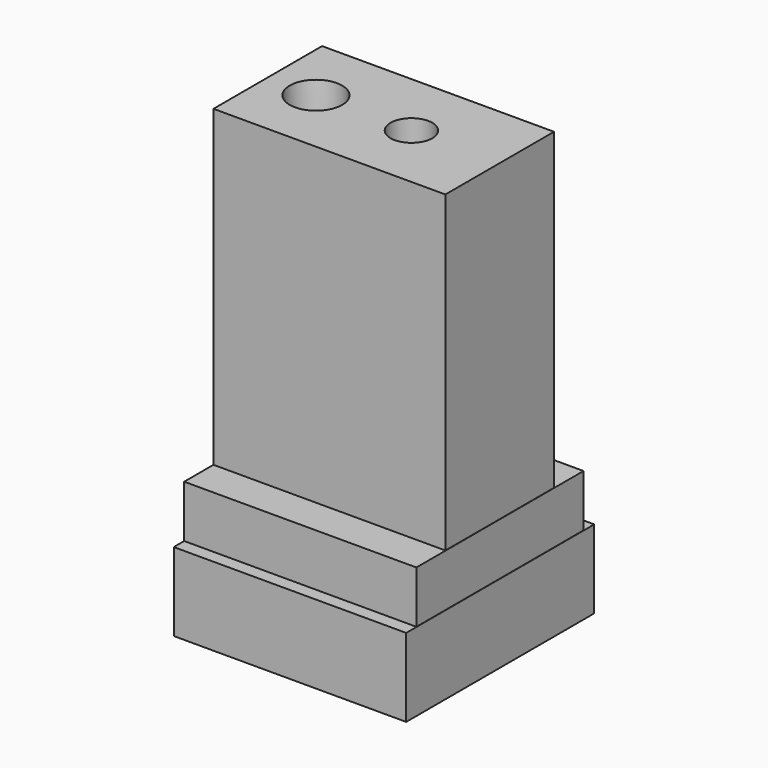
from build123d import *

# Parameters (mm, degrees)
F0_W      = 88.8
F0_H      = 26
F1_DEPTH  = 60
F3_DEPTH  = 45
F4_R      = 2
F5_W      = 88.9
F5_H      = 40
F6_DEPTH  = 10
F8_DEPTH  = 10
F9_R      = 2
F10_W     = 89
F10_H     = 45
F11_DEPTH = 15
F13_DEPTH = 5
F14_R     = 2
F15_R     = 4.6723110677
F15_R_2   = 4
F16_DEPTH = 85.001
F17_W     = 79.5239582658
F17_H     = 118.802215904
F18_DEPTH = 80
F19_R     = 3
F20_DEPTH = 3.2
F20_TAPER = -3
F21_R     = 4.232200224
F22_DEPTH = 25
F22_TAPER = -3


with BuildPart() as f1:
    # F0 (on Top) → F1 (new body)
    with BuildSketch(Plane.XY):
        Rectangle(F0_W, F0_H)
    extrude(amount=F1_DEPTH)

    # F2 (on face) → F3 (cut)
    with BuildSketch(Plane(origin=(0, 0, 0), x_dir=(1, 0, 0), z_dir=(0, 0, -1))):
        Polygon((-17.5, -7.6945363638), (0, -8), (17.5, -7.6945363638), (17.5, 7.6945363638), (0, 8), (-17.5, 7.6945363638), align=None)
    extrude(amount=-F3_DEPTH, mode=Mode.SUBTRACT)

    # F4
    f4_edges = [f1.edges().sort_by_distance(p)[0] for p in [
        (-17.5, 7.694536, 22.5),
        (-17.5, -7.694536, 22.5),
        (17.5, -7.694536, 22.5),
        (17.5, 7.694536, 22.5),
    ]]
    fillet(f4_edges, radius=F4_R)

    # F5 (on face) → F6 (join)
    with BuildSketch(Plane(origin=(0, 0, 0), x_dir=(1, 0, 0), z_dir=(0, 0, -1))):
        Rectangle(F5_W, F5_H)
    extrude(amount=F6_DEPTH)

    # F7 (on face) → F8 (cut)
    with BuildSketch(Plane(origin=(0, 0, -10), x_dir=(1, 0, 0), z_dir=(0, 0, -1))):
        Polygon((-20, -10.1508987014), (0, -10.5), (20, -10.1508987014), (20, 10.1508987014), (0, 10.5), (-20, 10.1508987014), align=None)
    extrude(amount=-F8_DEPTH, mode=Mode.SUBTRACT)

    # F9
    f9_edges = [f1.edges().sort_by_distance(p)[0] for p in [
        (-20, 10.150899, -5),
        (-20, -10.150899, -5),
        (20, 10.150899, -5),
        (20, -10.150899, -5),
    ]]
    fillet(f9_edges, radius=F9_R)

    # F10 (on face) → F11 (join)
    with BuildSketch(Plane(origin=(0, 0, -10), x_dir=(1, 0, 0), z_dir=(0, 0, -1))):
        Rectangle(F10_W, F10_H)
    extrude(amount=F11_DEPTH)

    # F12 (on face) → F13 (cut)
    with BuildSketch(Plane.XY.offset(-10)):
        Polygon((-39.5, -16.5605249353), (0, -17.25), (39.5, -16.5605249353), (39.5, 16.5605249353), (0, 17.25), (-39.5, 16.5605249353), align=None)
    extrude(amount=-F13_DEPTH, mode=Mode.SUBTRACT)

    # F14
    f14_edges = [f1.edges().sort_by_distance(p)[0] for p in [
        (-39.5, 16.560525, -12.5),
        (-39.5, -16.560525, -12.5),
        (39.5, -16.560525, -12.5),
        (39.5, 16.560525, -12.5),
    ]]
    fillet(f14_edges, radius=F14_R)

    # F15 (on face) → F16 (cut, through all)
    with BuildSketch(Plane.XY.offset(60)):
        with Locations((-27.5, 0)):
            Circle(F15_R)
        with Locations((27.5, 0)):
            Circle(F15_R_2)
    extrude(amount=-F16_DEPTH, mode=Mode.SUBTRACT)

    # F17 (on Right) → F18 (cut)
    with BuildSketch(Plane.YZ):
        with Locations((3.9665214717, 9.8679382354)):
            Rectangle(F17_W, F17_H)
    extrude(amount=-F18_DEPTH, mode=Mode.SUBTRACT)

    # F19 (on face) → F20 (cut)
    with BuildSketch(Plane(origin=(0, 0, 0), x_dir=(0, -1, 0), z_dir=(-1, 0, 0))):
        with Locations((0, 53.2094612718)):
            Circle(F19_R)
        with Locations((0, -20.896807313)):
            Circle(F19_R)
    extrude(amount=-F20_DEPTH, taper=F20_TAPER, mode=Mode.SUBTRACT)

    # F21 (on face) → F22 (cut)
    with BuildSketch(Plane(origin=(0, 0, 45), x_dir=(1, 0, 0), z_dir=(0, 0, -1))):
        with Locations((9.2245656997, 0)):
            Circle(F21_R)
    extrude(amount=-F22_DEPTH, taper=F22_TAPER, mode=Mode.SUBTRACT)


solid = f1.part
